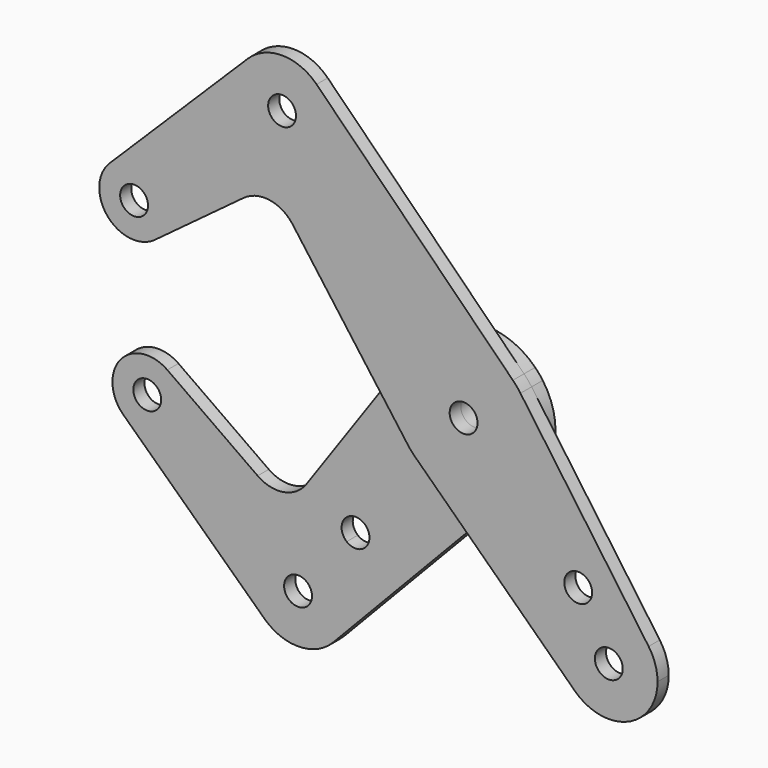
from build123d import *

# Parameters (mm, degrees)
F0_R     = 3.175
F0_R_2   = 3.9751
F1_DEPTH = 3.175
F2_DEPTH = 3.175


with BuildPart() as f1:
    # F0 (on Front) → F1 (new body)
    with BuildSketch(Plane.XZ):
        with BuildLine():
            ThreePointArc((-12.9963928803, 9.116435548), (-1.3703255214, 15.8157463613), (11.2347363475, 11.2158960499))
            Line((11.2347363475, 11.2158960499), (-33.502491082, 56.0282724172))
            ThreePointArc((-33.502491082, 56.0282724172), (-31.0984117721, 52.4254066435), (-30.2543065252, 48.1771451822))
            ThreePointArc((-30.2543065252, 48.1771451822), (-45.6420561484, 37.9199576091), (-49.189721042, 56.06952535))
            Line((-49.189721042, 56.06952535), (-80.6786042362, 24.8577950201))
            ThreePointArc((-80.6786042362, 24.8577950201), (-72.0370584219, 26.5469431668), (-67.1533081527, 19.2203806146))
            ThreePointArc((-67.1533081527, 19.2203806146), (-68.0010846925, 15.6511051269), (-70.3633182333, 12.8442732353))
            Line((-70.3633182333, 12.8442732353), (-50.1161145203, 27.8563245948))
            ThreePointArc((-50.1161145203, 27.8563245948), (-44.1993680748, 29.3319034343), (-38.9778360276, 26.1821693991))
            Line((-38.9778360276, 26.1821693991), (-19.5469214699, -0.2219997072))
            Line((-19.5469214699, -0.2219997072), (-12.9963928803, 9.116435548))
        make_face()
        with BuildLine():
            ThreePointArc((-30.2543065252, 48.1771451822), (-31.0984117721, 52.4254066435), (-33.502491082, 56.0282724172))
            ThreePointArc((-33.502491082, 56.0282724172), (-41.3375839262, 59.2896067587), (-49.189721042, 56.06952535))
            ThreePointArc((-49.189721042, 56.06952535), (-45.6420561484, 37.9199576091), (-30.2543065252, 48.1771451822))
        make_face()
        with Locations((-41.3668065252, 48.1771451822)):
            Circle(F0_R, mode=Mode.SUBTRACT)
        with BuildLine():
            ThreePointArc((12.960775018, 9.1670025599), (15.1289115341, 4.809538522), (15.875, 0))
            ThreePointArc((15.875, 0), (14.7371115992, -5.9019629541), (11.4865695481, -10.9578439949))
            Line((11.4865695481, -10.9578439949), (0.4674695088, -22.5086252451))
            Line((0.4674695088, -22.5086252451), (25.3782510467, -46.539430514))
            ThreePointArc((25.3782510467, -46.539430514), (25.8542540782, -30.1107157389), (42.1659877328, -32.1248143539))
            Line((42.1659877328, -32.1248143539), (12.960775018, 9.1670025599))
        make_face()
        with Locations((26.1129773372, -25.5382585473)):
            Circle(F0_R, mode=Mode.SUBTRACT)
        with BuildLine():
            ThreePointArc((-12.7859915921, -9.4092531056), (-15.8739762597, -0.1802850688), (-12.9963928803, 9.116435548))
            Line((-12.9963928803, 9.116435548), (-19.5469214699, -0.2219997072))
            Line((-19.5469214699, -0.2219997072), (-12.7859915921, -9.4092531056))
        make_face()
        with BuildLine():
            Line((0.4674695088, -22.5086252451), (11.4865695481, -10.9578439949))
            ThreePointArc((11.4865695481, -10.9578439949), (0.3296282392, -15.8715774334), (-11.0217059621, -11.4253062403))
            Line((-11.0217059621, -11.4253062403), (0.4674695088, -22.5086252451))
        make_face()
        with BuildLine():
            ThreePointArc((44.2059452202, -38.5417161458), (43.683683294, -35.1750391804), (42.1659877328, -32.1248143539))
            ThreePointArc((42.1659877328, -32.1248143539), (25.8542540782, -30.1107157389), (25.3782510467, -46.539430514))
            ThreePointArc((25.3782510467, -46.539430514), (37.4381293857, -48.7696864112), (44.2059452202, -38.5417161458))
        make_face()
        with Locations((33.0934452202, -38.5417161458)):
            Circle(F0_R, mode=Mode.SUBTRACT)
        with BuildLine():
            ThreePointArc((-67.1533081527, 19.2203806146), (-72.0370584219, 26.5469431668), (-80.6786042362, 24.8577950201))
            ThreePointArc((-80.6786042362, 24.8577950201), (-81.1129513005, 14.0495297989), (-70.3633182333, 12.8442732353))
            ThreePointArc((-70.3633182333, 12.8442732353), (-68.0010846925, 15.6511051269), (-67.1533081527, 19.2203806146))
        make_face()
        with Locations((-75.0908081527, 19.2203806146)):
            Circle(F0_R, mode=Mode.SUBTRACT)
        with BuildLine():
            ThreePointArc((11.4865695481, -10.9578439949), (14.7371115992, -5.9019629541), (15.875, 0))
            ThreePointArc((15.875, 0), (15.1289115341, 4.809538522), (12.960775018, 9.1670025599))
            ThreePointArc((12.960775018, 9.1670025599), (12.1410536484, 10.2279245846), (11.2347363475, 11.2158960499))
            ThreePointArc((11.2347363475, 11.2158960499), (-1.3703255214, 15.8157463613), (-12.9963928803, 9.116435548))
            ThreePointArc((-12.9963928803, 9.116435548), (-15.8739762597, -0.1802850688), (-12.7859915921, -9.4092531056))
            ThreePointArc((-12.7859915921, -9.4092531056), (-11.9464527484, -10.4545632013), (-11.0217059621, -11.4253062403))
            ThreePointArc((-11.0217059621, -11.4253062403), (0.3296282392, -15.8715774334), (11.4865695481, -10.9578439949))
        make_face()
        Circle(F0_R_2, mode=Mode.SUBTRACT)
        Circle(F0_R_2)
        Circle(F0_R, mode=Mode.SUBTRACT)
    extrude(amount=F1_DEPTH)


with BuildPart() as f2:
    # F0 (on Front) → F2 (new body)
    with BuildSketch(Plane.XZ):
        with BuildLine():
            ThreePointArc((-70.0534543926, -14.4390247389), (-80.7729413552, -15.8881119418), (-80.0932331707, -26.6837245343))
            ThreePointArc((-80.0932331707, -26.6837245343), (-71.4981559981, -28.212266432), (-66.697413199, -20.9208563824))
            ThreePointArc((-66.697413199, -20.9208563824), (-67.5861815569, -17.2712963422), (-70.0534543926, -14.4390247389))
        make_face()
        with Locations((-74.634913199, -20.9208563824)):
            Circle(F0_R, mode=Mode.SUBTRACT)
        with BuildLine():
            ThreePointArc((-47.9036034847, -57.1722406622), (-39.9803585162, -60.2131567631), (-32.2213568408, -56.7747160459))
            ThreePointArc((-32.2213568408, -56.7747160459), (-29.945977405, -53.2355993173), (-29.1494555244, -49.1042252495))
            ThreePointArc((-29.1494555244, -49.1042252495), (-30.2174401582, -44.3507667919), (-33.2161133077, -40.5109858308))
            ThreePointArc((-33.2161133077, -40.5109858308), (-48.5979077352, -41.7557861642), (-47.9036034847, -57.1722406622))
        make_face()
        with BuildLine():
            ThreePointArc((-37.0869555244, -49.1042252495), (-43.1318170576, -50.4623562373), (-38.2488577482, -46.649013987))
            ThreePointArc((-38.2488577482, -46.649013987), (-37.3920939912, -47.7460942616), (-37.0869555244, -49.1042252495))
        make_face(mode=Mode.SUBTRACT)
        with BuildLine():
            ThreePointArc((11.4865695481, -10.9578439949), (14.7371115992, -5.9019629541), (15.875, 0))
            ThreePointArc((15.875, 0), (15.1289115341, 4.809538522), (12.960775018, 9.1670025599))
            ThreePointArc((12.960775018, 9.1670025599), (12.1410536484, 10.2279245846), (11.2347363475, 11.2158960499))
            ThreePointArc((11.2347363475, 11.2158960499), (-1.3703255214, 15.8157463613), (-12.9963928803, 9.116435548))
            ThreePointArc((-12.9963928803, 9.116435548), (-15.8739762597, -0.1802850688), (-12.7859915921, -9.4092531056))
            ThreePointArc((-12.7859915921, -9.4092531056), (-11.9464527484, -10.4545632013), (-11.0217059621, -11.4253062403))
            ThreePointArc((-11.0217059621, -11.4253062403), (0.3296282392, -15.8715774334), (11.4865695481, -10.9578439949))
        make_face()
        Circle(F0_R_2, mode=Mode.SUBTRACT)
        with BuildLine():
            Line((0.4674695088, -22.5086252451), (-11.0217059621, -11.4253062403))
            ThreePointArc((-11.0217059621, -11.4253062403), (-11.9464527484, -10.4545632013), (-12.7859915921, -9.4092531056))
            Line((-12.7859915921, -9.4092531056), (-19.5469214699, -0.2219997072))
            Line((-19.5469214699, -0.2219997072), (-38.3731426606, -27.0606655164))
            ThreePointArc((-38.3731426606, -27.0606655164), (-43.5217923092, -30.3281765276), (-49.4705253556, -28.9873571681))
            Line((-49.4705253556, -28.9873571681), (-70.0534543926, -14.4390247389))
            ThreePointArc((-70.0534543926, -14.4390247389), (-67.5861815569, -17.2712963422), (-66.697413199, -20.9208563824))
            ThreePointArc((-66.697413199, -20.9208563824), (-71.4981559981, -28.212266432), (-80.0932331707, -26.6837245343))
            Line((-80.0932331707, -26.6837245343), (-47.9036034847, -57.1722406622))
            ThreePointArc((-47.9036034847, -57.1722406622), (-48.5979077352, -41.7557861642), (-33.2161133077, -40.5109858308))
            ThreePointArc((-33.2161133077, -40.5109858308), (-30.2174401582, -44.3507667919), (-29.1494555244, -49.1042252495))
            ThreePointArc((-29.1494555244, -49.1042252495), (-29.945977405, -53.2355993173), (-32.2213568408, -56.7747160459))
            Line((-32.2213568408, -56.7747160459), (0.4674695088, -22.5086252451))
        make_face()
        with BuildLine():
            ThreePointArc((-23.9937675879, -33.1355311983), (-25.8106366, -36.0053927315), (-29.1818653641, -35.5907424608))
            ThreePointArc((-29.1818653641, -35.5907424608), (-28.5268985758, -30.2656696651), (-23.9937675879, -33.1355311983))
        make_face(mode=Mode.SUBTRACT)
        with BuildLine():
            Line((0.4674695088, -22.5086252451), (11.4865695481, -10.9578439949))
            ThreePointArc((11.4865695481, -10.9578439949), (0.3296282392, -15.8715774334), (-11.0217059621, -11.4253062403))
            Line((-11.0217059621, -11.4253062403), (0.4674695088, -22.5086252451))
        make_face()
        with BuildLine():
            ThreePointArc((-12.7859915921, -9.4092531056), (-15.8739762597, -0.1802850688), (-12.9963928803, 9.116435548))
            Line((-12.9963928803, 9.116435548), (-19.5469214699, -0.2219997072))
            Line((-19.5469214699, -0.2219997072), (-12.7859915921, -9.4092531056))
        make_face()
        Circle(F0_R_2)
        Circle(F0_R, mode=Mode.SUBTRACT)
    extrude(amount=-F2_DEPTH)


solid = Compound([f1.part, f2.part])
